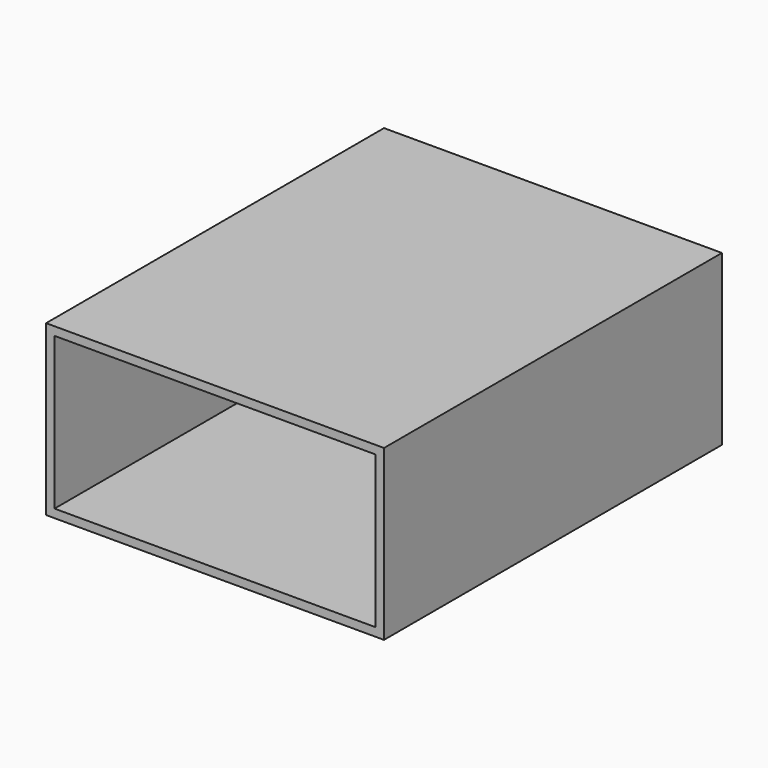
from build123d import *

# Parameters (mm, degrees)
F0_W     = 38
F0_H     = 1
F0_W_2   = 1
F0_H_2   = 18
F1_DEPTH = 50


with BuildPart() as f1:
    # F0 (on Front) → F1 (new body)
    with BuildSketch(Plane.XZ):
        Polygon((-20, 10), (-20, -10), (-19, -10), (-19, -9), (-19, 9), (-19, 10), align=None)
        with Locations((0, -9.5)):
            Rectangle(F0_W, F0_H)
        with Locations((19.5, -9.5)):
            Rectangle(F0_W_2, F0_H)
        with Locations((0, 9.5)):
            Rectangle(F0_W, F0_H)
        with Locations((19.5, 0)):
            Rectangle(F0_W_2, F0_H_2)
        with Locations((19.5, 9.5)):
            Rectangle(F0_W_2, F0_H)
    extrude(amount=F1_DEPTH)


solid = f1.part
